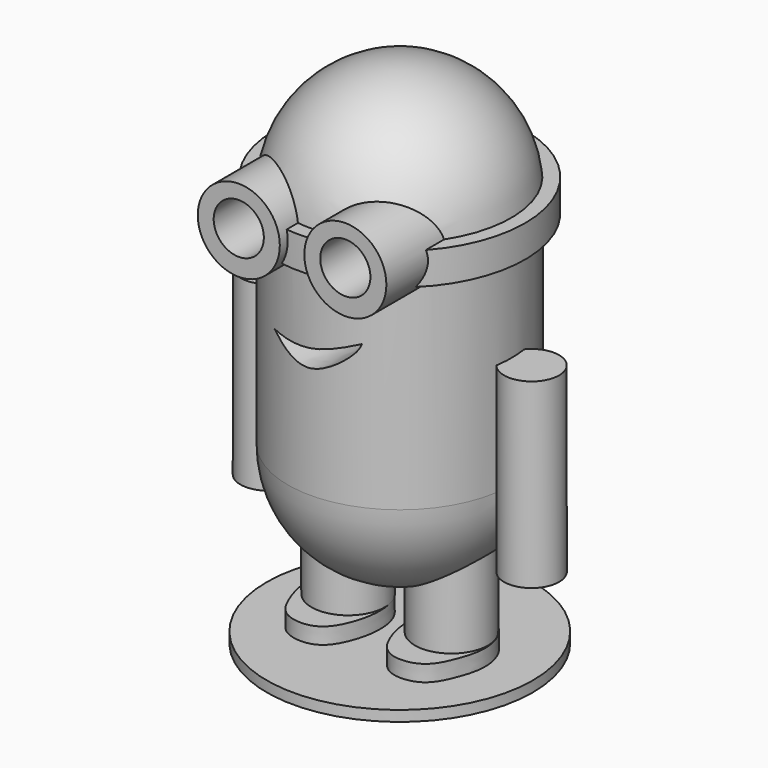
from build123d import *

# Parameters (mm, degrees)
F4_DEPTH  = 28.2
F5_R      = 3.9039510248
F6_DEPTH  = 25.8
F7_R      = 5.1903964383
F8_DEPTH  = 37
F10_DEPTH = 2.3
F11_R     = 18.8791722518
F12_DEPTH = 1.5
F13_W     = 2.7272701263
F13_H     = 4.5454557985
F15_R     = 5.8210220824
F16_DEPTH = 19.1
F17_R     = 3.5573808127
F18_DEPTH = 30


with BuildPart() as f1:
    # F0 (on Front) → F1 (revolve)
    with BuildSketch(Plane.XZ):
        with BuildLine():
            Line((-15.875, -15.875), (0, -15.875))
            Line((0, -15.875), (0, 31.75))
            ThreePointArc((0, 31.75), (-11.2253201513, 27.1003201513), (-15.875, 15.875))
            Line((-15.875, 15.875), (-15.875, -15.875))
        make_face()
        with BuildLine():
            Line((0, -31.75), (0, -15.875))
            Line((0, -15.875), (-15.875, -15.875))
            ThreePointArc((-15.875, -15.875), (-11.2253201513, -27.1003201513), (0, -31.75))
        make_face()
    revolve(axis=Axis((0, 0, 0), (0, 0, -1)))

    # F3 (on Front) → F4 (cut)
    with BuildSketch(Plane.XZ):
        with BuildLine():
            add(Edge.make_bspline(
                [(-6.0461172834, 2.4959067814), (-4.028533158, 2.3369491255), (0.1005445797, 2.0116350481), (4.2018322358, 3.6836311663), (6.2991147861, 4.5386427082)],
                knots=[0, 0, 0, 0, 0.4886282733, 1, 1, 1, 1], degree=3))
            add(Edge.make_bspline(
                [(-6.0461172834, 2.4959067814), (-4.1181349295, 1.1140568782), (-0.2700371414, -1.644004442), (5.7694328778, 3.0636466915), (6.1708141175, 4.1813660633), (6.2991147861, 4.5386427082)],
                knots=[0, 0, 0, 0, 0.4058722095, 0.8100883022, 1, 1, 1, 1], degree=3))
        make_face()
    extrude(amount=F4_DEPTH, mode=Mode.SUBTRACT)

    # F5 (on Top) → F6 (join)
    with BuildSketch(Plane.XY):
        with Locations((18.6931826174, 0)):
            Circle(F5_R)
        with Locations((-18.6931826174, 0)):
            Circle(F5_R)
    extrude(amount=-F6_DEPTH)

    # F7 (on Top) → F8 (join)
    with BuildSketch(Plane.XY):
        with Locations((-7.3295454495, 0)):
            Circle(F7_R)
        with Locations((7.3295454495, 0)):
            Circle(F7_R)
    extrude(amount=-F8_DEPTH)

    # F9 (on face) → F10 (join)
    with BuildSketch(Plane(origin=(0, 0, -37), x_dir=(1, 0, 0), z_dir=(0, 0, -1))):
        with BuildLine():
            add(Edge.make_bspline(
                [(-4.4605839066, -4.2878543027), (-3.0017179574, -3.3583444212), (-1.458556714, -0.0316324394), (-2.6367504729, 5.533763177), (-5.0412732751, 9.0001336545), (-10.0021127312, 8.6320191516), (-11.8902083946, 4.7656677042), (-13.3327215963, 0.0556902916), (-10.6600823735, -5.7059711702), (-6.0082775674, -5.2739603612), (-4.4605839066, -4.2878543027)],
                knots=[0, 0, 0, 0, 0.1273841038, 0.2628978132, 0.3751987417, 0.4907069022, 0.6051645787, 0.732271732, 0.8648597083, 1, 1, 1, 1], degree=3))
        make_face()
        with BuildLine():
            add(Edge.make_bspline(
                [(4.4605839066, -4.2878543027), (3.0017179574, -3.3583444212), (1.458556714, -0.0316324394), (2.6367504729, 5.533763177), (5.0412732751, 9.0001336545), (10.0021127312, 8.6320191516), (11.8902083946, 4.7656677042), (13.3327215963, 0.0556902916), (10.6600823735, -5.7059711702), (6.0082775674, -5.2739603612), (4.4605839066, -4.2878543027)],
                knots=[0, 0, 0, 0, 0.1273841038, 0.2628978132, 0.3751987417, 0.4907069022, 0.6051645787, 0.732271732, 0.8648597083, 1, 1, 1, 1], degree=3))
        make_face()
    extrude(amount=F10_DEPTH)

    # F11 (on face) → F12 (join)
    with BuildSketch(Plane(origin=(0, 0, -39.3), x_dir=(1, 0, 0), z_dir=(0, 0, -1))):
        Circle(F11_R)
    extrude(amount=F12_DEPTH)

    # F13 (on Front) → F14 (revolve)
    with BuildSketch(Plane.XZ):
        with Locations((-16.4204556495, 15.1704549789)):
            Rectangle(F13_W, F13_H)
    revolve(axis=Axis((0, 0, 15.9659092315), (0, 0, -1)))

    # F15 (on Front) → F16 (join)
    with BuildSketch(Plane.XZ):
        with Locations((-7.55681796, 16.0795468837)):
            Circle(F15_R)
        with Locations((7.55681796, 16.0795468837)):
            Circle(F15_R)
    extrude(amount=F16_DEPTH)

    # F17 (on Front) → F18 (cut)
    with BuildSketch(Plane.XZ):
        with Locations((-7.55681796, 16.3068193942)):
            Circle(F17_R)
        with Locations((7.55681796, 16.3068193942)):
            Circle(F17_R)
    extrude(amount=F18_DEPTH, mode=Mode.SUBTRACT)


solid = f1.part
